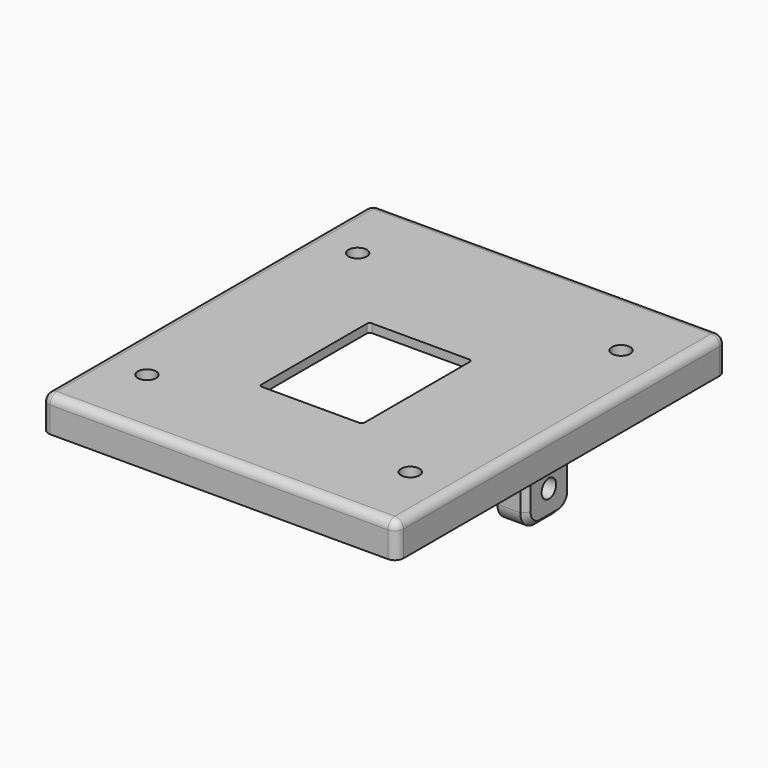
from build123d import *

# Parameters (mm, degrees)
SKETCH082_W     = 62
SKETCH082_H     = 6
PAD030_DEPTH    = 72
FILLET021_R     = 1.5
SKETCH083_W     = 12
SKETCH083_H     = 23.4
POCKET047_DEPTH = 2
FILLET022_R     = 0.5
SKETCH084_W     = 5
SKETCH084_H     = 10
PAD031_DEPTH    = 9
CHAMFER_SIZE    = 1
FILLET023_R     = 3
CHAMFER001_SIZE = 1
SKETCH085_R     = 1.6
POCKET048_DEPTH = 80
POCKET049_DEPTH = 51.6
POCKET050_DEPTH = 12
SKETCH088_W     = 18
SKETCH088_H     = 24
POCKET051_DEPTH = 16
FILLET024_R     = 0.5
SKETCH089_R     = 1.6
POCKET052_DEPTH = 10
POCKET053_DEPTH = 2
SKETCH091_W     = 30
SKETCH091_H     = 68
POCKET054_DEPTH = 4.5
CHAMFER002_SIZE = 1


with BuildPart() as part:
    # Sketch082 → Pad030 (new body)
    with BuildSketch(Plane.XZ.offset(-36)):
        with Locations((0, 25.5)):
            Rectangle(SKETCH082_W, SKETCH082_H)
    extrude(amount=PAD030_DEPTH)

    # Fillet021
    fillet021_edges = [part.edges().sort_by_distance(p)[0] for p in [
        (31, 0, 28.5),
        (-31, 0, 28.5),
        (0, 36, 28.5),
        (0, -36, 28.5),
        (31, -36, 25.5),
        (-31, -36, 25.5),
        (31, 36, 25.5),
        (-31, 36, 25.5),
    ]]
    fillet(fillet021_edges, radius=FILLET021_R)

    # Sketch083 (on Face1 of Fillet021) → Pocket047 (cut)
    with BuildSketch(Plane(origin=(0, 0, 22.5), x_dir=(1, 0, 0), z_dir=(0, 0, -1))):
        with Locations((23, 18)):
            Rectangle(SKETCH083_W, SKETCH083_H)
        with Locations((23, -18)):
            Rectangle(SKETCH083_W, SKETCH083_H)
        with Locations((-23, 18)):
            Rectangle(SKETCH083_W, SKETCH083_H)
        with Locations((-23, -18)):
            Rectangle(SKETCH083_W, SKETCH083_H)
    extrude(amount=-POCKET047_DEPTH, mode=Mode.SUBTRACT)

    # Fillet022
    fillet022_edges = [part.edges().sort_by_distance(p)[0] for p in [
        (17, 6.3, 23.5),
        (17, -6.3, 23.5),
        (29, -6.3, 23.5),
        (17, 29.7, 23.5),
        (29, 29.7, 23.5),
        (29, 6.3, 23.5),
        (17, -29.7, 23.5),
        (29, -29.7, 23.5),
        (-17, -29.7, 23.5),
        (-29, -29.7, 23.5),
        (-29, -6.3, 23.5),
        (-17, -6.3, 23.5),
        (-29, 6.3, 23.5),
        (-17, 6.3, 23.5),
        (-17, 29.7, 23.5),
        (-29, 29.7, 23.5),
    ]]
    fillet(fillet022_edges, radius=FILLET022_R)

    # Sketch084 (on Face1 of Fillet022) → Pad031 (join)
    with BuildSketch(Plane(origin=(0, 0, 22.5), x_dir=(1, 0, 0), z_dir=(0, 0, -1))):
        with Locations((26.3, 0)):
            Rectangle(SKETCH084_W, SKETCH084_H)
        with Locations((-26.3, 0)):
            Rectangle(SKETCH084_W, SKETCH084_H)
    extrude(amount=PAD031_DEPTH)

    # Chamfer
    chamfer_edges = [part.edges().sort_by_distance(p)[0] for p in [
        (23.8, 0, 22.5),
        (-23.8, 0, 22.5),
    ]]
    chamfer(chamfer_edges, length=CHAMFER_SIZE)

    # Fillet023
    fillet023_edges = [part.edges().sort_by_distance(p)[0] for p in [
        (26.3, -5, 13.5),
        (26.3, 5, 13.5),
        (-26.3, -5, 13.5),
        (-26.3, 5, 13.5),
    ]]
    fillet(fillet023_edges, radius=FILLET023_R)

    # Chamfer001
    chamfer001_edges = [part.edges().sort_by_distance(p)[0] for p in [
        (28.8, 0, 13.5),
        (-28.8, 0, 13.5),
    ]]
    chamfer(chamfer001_edges, length=CHAMFER001_SIZE)

    # Sketch085 (on Face55 of Chamfer001) → Pocket048 (cut)
    with BuildSketch(Plane(origin=(-28.8, 0, 0), x_dir=(0, 0, -1), z_dir=(-1, 0, 0))):
        with Locations((-18.5, 0)):
            Circle(SKETCH085_R)
    extrude(amount=-POCKET048_DEPTH, mode=Mode.SUBTRACT)

    # Sketch086 (on Face4 of Pocket048) → Pocket049 (cut)
    with BuildSketch(Plane(origin=(25.8, 0, 0), x_dir=(0, 0, -1), z_dir=(-1, 0, 0))):
        Polygon((-18.5, 3.175426), (-21.25, 1.587713), (-21.25, -1.587713), (-18.5, -3.175426), (-15.75, -1.587713), (-15.75, 1.587713), align=None)
    extrude(amount=POCKET049_DEPTH, mode=Mode.SUBTRACT)

    # Sketch087 (on Face22 of Pocket049) → Pocket050 (cut)
    with BuildSketch(Plane(origin=(0, 36, 0), x_dir=(1, 0, 0), z_dir=(0, 1, 0))):
        with BuildLine():
            Line((-5, -22.5), (-5, -26))
            ThreePointArc((-5, -26), (-4.56066, -27.06066), (-3.5, -27.5))
            Line((-3.5, -27.5), (3.5, -27.5))
            ThreePointArc((3.5, -27.5), (4.56066, -27.06066), (5, -26))
            Line((5, -26), (5, -22.5))
            Line((-5, -22.5), (5, -22.5))
        make_face()
    extrude(amount=-POCKET050_DEPTH, mode=Mode.SUBTRACT)

    # Sketch088 (on Face95 of Pocket050) → Pocket051 (cut)
    with BuildSketch(Plane(origin=(0, 0, 28.5), x_dir=(-1, 0, 0), z_dir=(0, 0, 1))):
        with Locations((0, 4)):
            Rectangle(SKETCH088_W, SKETCH088_H)
    extrude(amount=-POCKET051_DEPTH, mode=Mode.SUBTRACT)

    # Fillet024
    fillet024_edges = [part.edges().sort_by_distance(p)[0] for p in [
        (9, 8, 25.5),
        (9, -16, 25.5),
        (-9, -16, 25.5),
        (-9, 8, 25.5),
    ]]
    fillet(fillet024_edges, radius=FILLET024_R)

    # Sketch089 (on Face66 of Fillet024) → Pocket052 (cut)
    with BuildSketch(Plane(origin=(0, 0, 28.5), x_dir=(-1, 0, 0), z_dir=(0, 0, 1))):
        with Locations((23, 23)):
            Circle(SKETCH089_R)
        with Locations((-23, 23)):
            Circle(SKETCH089_R)
        with Locations((-23, -23)):
            Circle(SKETCH089_R)
        with Locations((23, -23)):
            Circle(SKETCH089_R)
    extrude(amount=-POCKET052_DEPTH, mode=Mode.SUBTRACT)

    # Sketch090 (on Face95 of Pocket052) → Pocket053 (cut)
    with BuildSketch(Plane(origin=(0, 0, 24.5), x_dir=(1, 0, 0), z_dir=(0, 0, -1))):
        Polygon((-21.412287, 25.75), (-24.587713, 25.75), (-26.175426, 23), (-24.587713, 20.25), (-21.412287, 20.25), (-19.824574, 23), align=None)
        Polygon((21.412287, 25.75), (19.824574, 23), (21.412287, 20.25), (24.587713, 20.25), (26.175426, 23), (24.587713, 25.75), align=None)
        Polygon((-19.824574, -23), (-21.412287, -20.25), (-24.587713, -20.25), (-26.175426, -23), (-24.587713, -25.75), (-21.412287, -25.75), align=None)
        Polygon((26.175426, -23), (24.587713, -20.25), (21.412287, -20.25), (19.824574, -23), (21.412287, -25.75), (24.587713, -25.75), align=None)
    extrude(amount=-POCKET053_DEPTH, mode=Mode.SUBTRACT)

    # Sketch091 (on Face1 of Pocket053) → Pocket054 (cut)
    with BuildSketch(Plane(origin=(0, 0, 22.5), x_dir=(1, 0, 0), z_dir=(0, 0, -1))):
        Rectangle(SKETCH091_W, SKETCH091_H)
    extrude(amount=-POCKET054_DEPTH, mode=Mode.SUBTRACT)

    # Chamfer002
    chamfer002_edges = [part.edges().sort_by_distance(p)[0] for p in [
        (-23, -6.3, 22.5),
        (-23, 6.3, 22.5),
        (23, -6.3, 22.5),
        (23, 6.3, 22.5),
    ]]
    chamfer(chamfer002_edges, length=CHAMFER002_SIZE)


with BuildPart() as part_1:
    # Body006 placement: moved
    add(part.part.moved(Location((0, 0, 1))))


solid = part_1.part
